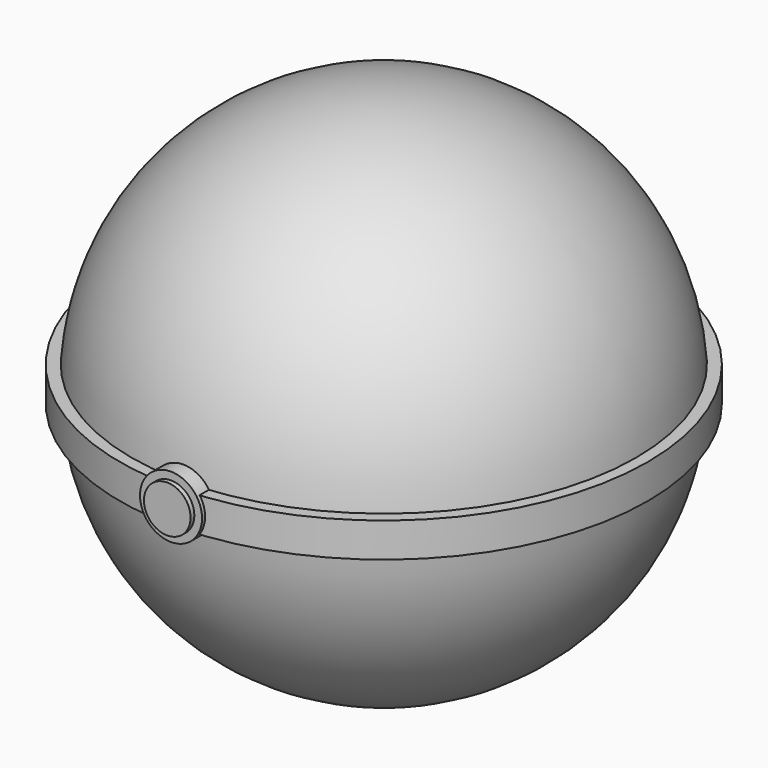
from build123d import *

# Parameters (mm, degrees)
F3_W      = 90.966984
F3_H      = 5.0084
F4_DEPTH  = 191.008
F5_R      = 42.856131
F6_DEPTH  = 2.794
F7_R      = 3.785629
F8_DEPTH  = 43.942
F9_R      = 5.036041
F10_DEPTH = 43.18


with BuildPart() as f1:
    # F0 (on Front) → F1 (revolve)
    with BuildSketch(Plane.XZ):
        with BuildLine():
            Line((0, 41.069034), (0, -41.069034))
            ThreePointArc((0, -41.069034), (41.069034, 0), (0, 41.069034))
        make_face()
    revolve(axis=Axis((0, 0, 0), (0, 0, -1)))

    # F3 (on offset) → F4 (cut)
    with BuildSketch(Plane.XZ.offset(74.676)):
        Rectangle(F3_W, F3_H)
    extrude(amount=-F4_DEPTH, mode=Mode.SUBTRACT)


with BuildPart() as f6:
    # F5 (on Top) → F6 (new body, symmetric)
    with BuildSketch(Plane.XY):
        Circle(F5_R)
    extrude(amount=F6_DEPTH, both=True)


with BuildPart() as f8:
    # F7 (on Front) → F8 (new body)
    with BuildSketch(Plane.XZ):
        Circle(F7_R)
    extrude(amount=F8_DEPTH)


with BuildPart() as f10:
    # F9 (on Front) → F10 (new body)
    with BuildSketch(Plane.XZ):
        Circle(F9_R)
    extrude(amount=F10_DEPTH)


solid = Compound([f1.part, f6.part, f8.part, f10.part])
